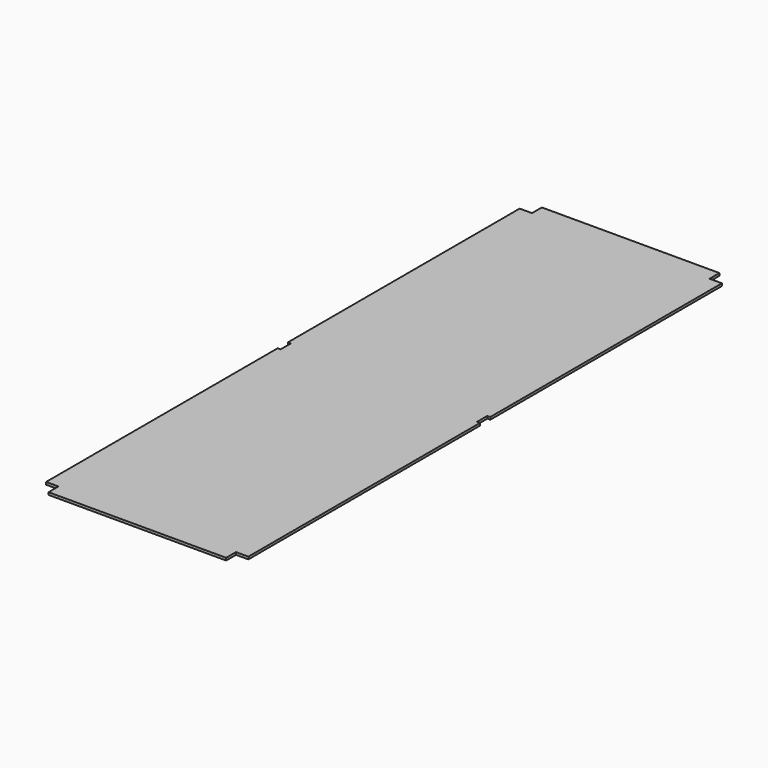
from build123d import *

# Parameters (mm, degrees)
F0_W      = 410
F0_H      = 1250
F1_DEPTH  = 5
F2_W      = 25
F2_H      = 25
F3_DEPTH  = 25
F4_W      = 25
F4_H      = 25
F5_DEPTH  = 25
F6_W      = 25
F6_H      = 25
F7_DEPTH  = 25
F8_W      = 25
F8_H      = 25
F9_DEPTH  = 25
F10_W     = 12
F10_H     = 26
F11_DEPTH = 25
F12_W     = 12
F12_H     = 26
F13_DEPTH = 25


with BuildPart() as f1:
    # F0 (on Top) → F1 (new body)
    with BuildSketch(Plane.XY):
        with Locations((205, 625)):
            Rectangle(F0_W, F0_H)
    extrude(amount=F1_DEPTH)

    # F2 (on face) → F3 (cut)
    with BuildSketch(Plane.XY.offset(5)):
        with Locations((12.5, 12.5)):
            Rectangle(F2_W, F2_H)
    extrude(amount=-F3_DEPTH, mode=Mode.SUBTRACT)

    # F4 (on face) → F5 (cut)
    with BuildSketch(Plane.XY.offset(5)):
        with Locations((397.5, 12.5)):
            Rectangle(F4_W, F4_H)
    extrude(amount=-F5_DEPTH, mode=Mode.SUBTRACT)

    # F6 (on face) → F7 (cut)
    with BuildSketch(Plane.XY.offset(5)):
        with Locations((397.5, 1237.5)):
            Rectangle(F6_W, F6_H)
    extrude(amount=-F7_DEPTH, mode=Mode.SUBTRACT)

    # F8 (on face) → F9 (cut)
    with BuildSketch(Plane.XY.offset(5)):
        with Locations((12.5, 1237.5)):
            Rectangle(F8_W, F8_H)
    extrude(amount=-F9_DEPTH, mode=Mode.SUBTRACT)

    # F10 (on face) → F11 (cut)
    with BuildSketch(Plane.XY.offset(5)):
        with Locations((0, 625)):
            Rectangle(F10_W, F10_H)
    extrude(amount=-F11_DEPTH, mode=Mode.SUBTRACT)

    # F12 (on face) → F13 (cut)
    with BuildSketch(Plane.XY.offset(5)):
        with Locations((410, 625)):
            Rectangle(F12_W, F12_H)
    extrude(amount=-F13_DEPTH, mode=Mode.SUBTRACT)


solid = f1.part
